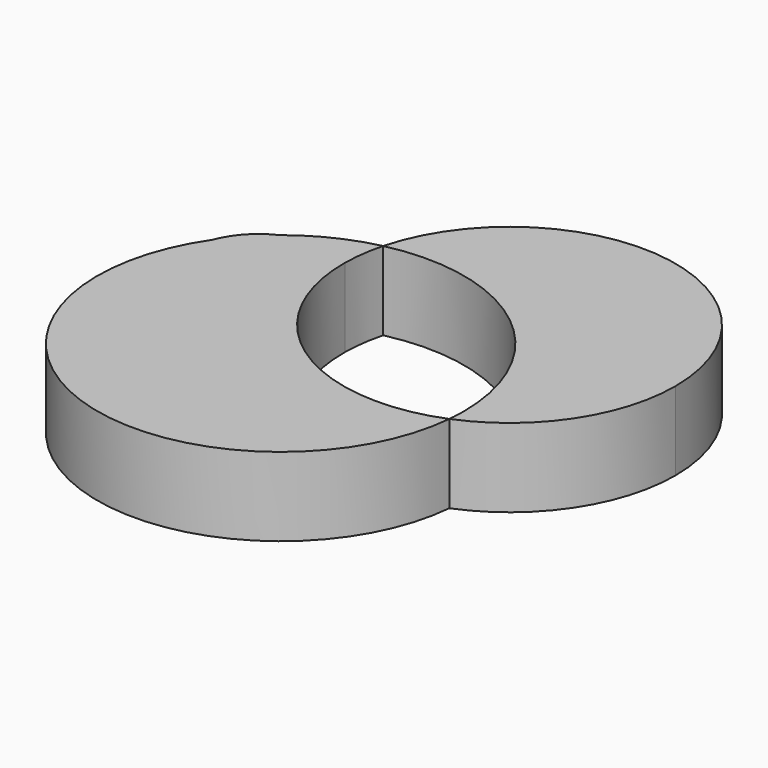
from build123d import *

# Parameters (mm, degrees)
F1_DEPTH = 25.4


with BuildPart() as f1:
    # F0 (on Top) → F1 (new body)
    with BuildSketch(Plane.XY):
        with BuildLine():
            ThreePointArc((47.886060174, -12.4549665998), (72.1310270555, 7.2734088866), (81.2462326585, 37.1722423961))
            ThreePointArc((81.2462326585, 37.1722423961), (34.5731761302, 90.3168428852), (-24.1531557895, 50.8967882672))
            ThreePointArc((-24.1531557895, 50.8967882672), (25.8912684531, 39.4171072118), (48.1518860988, -6.8505097243))
            ThreePointArc((48.1518860988, -6.8505097243), (48.0853922825, -9.6558884996), (47.886060174, -12.4549665998))
        make_face()
    extrude(amount=F1_DEPTH)


with BuildPart() as f1b:
    # F0 (on Top) → F1, piece 2 (new body)
    with BuildSketch(Plane.XY):
        with BuildLine():
            ThreePointArc((-59.9184655616, 26.6024068911), (-54.5341208369, 33.3519547329), (-48.2254532875, 39.2467217286))
            ThreePointArc((-48.2254532875, 39.2467217286), (-55.3083630994, 34.0679464173), (-59.9184655616, 26.6024068911))
        make_face()
        with BuildLine():
            ThreePointArc((-25.9383554705, 37.6279434525), (-25.4617289431, 44.3183312009), (-24.1531557895, 50.8967882672))
            ThreePointArc((-24.1531557895, 50.8967882672), (-36.8556234904, 46.4485564081), (-48.2254532875, 39.2467217286))
            ThreePointArc((-48.2254532875, 39.2467217286), (-36.8706085411, 41.3464221655), (-25.9383554705, 37.6279434525))
        make_face()
        with BuildLine():
            ThreePointArc((-59.9184655616, 26.6024068911), (-31.2306747799, -62.5222091751), (47.886060174, -12.4549665998))
            ThreePointArc((47.886060174, -12.4549665998), (11.1372492755, -13.8127435197), (-17.8355630487, 8.8344374672))
            ThreePointArc((-17.8355630487, 8.8344374672), (-47.4173757288, -2.5091676282), (-59.9184655616, 26.6024068911))
        make_face()
        with BuildLine():
            ThreePointArc((-17.8355630487, 8.8344374672), (-23.9364774509, 22.6544346984), (-25.9383554705, 37.6279434525))
            ThreePointArc((-25.9383554705, 37.6279434525), (-36.8706085411, 41.3464221655), (-48.2254532875, 39.2467217286))
            ThreePointArc((-48.2254532875, 39.2467217286), (-54.5341208369, 33.3519547329), (-59.9184655616, 26.6024068911))
            ThreePointArc((-59.9184655616, 26.6024068911), (-47.4173757288, -2.5091676282), (-17.8355630487, 8.8344374672))
        make_face()
    extrude(amount=F1_DEPTH)


solid = Compound([f1.part, f1b.part])
